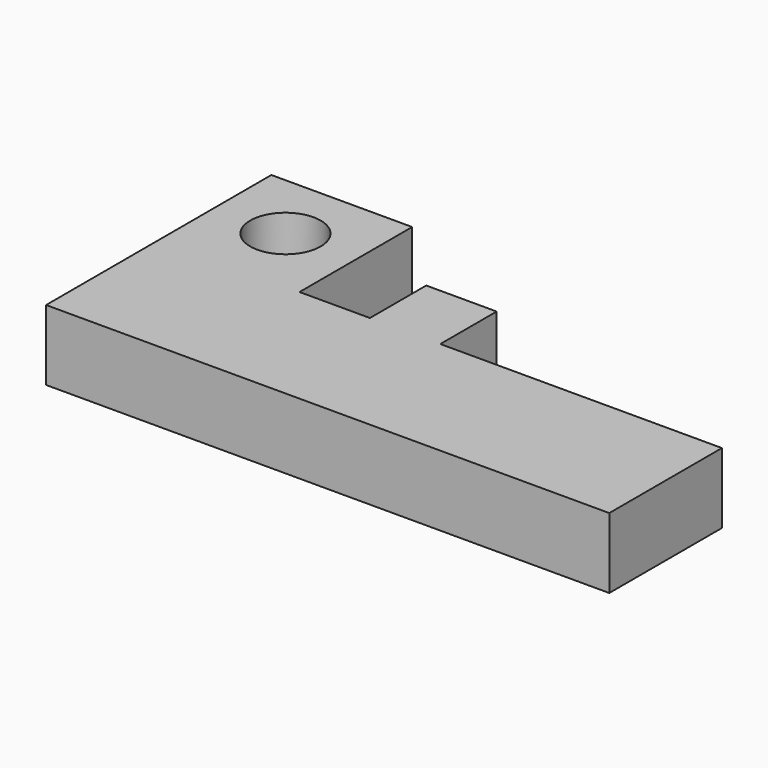
from build123d import *

# Parameters (mm, degrees)
F0_R     = 6.35
F1_DEPTH = 12.7


with BuildPart() as f1:
    # F0 (on Top) → F1 (new body)
    with BuildSketch(Plane.XY):
        Polygon((-11.073005, 20.208511), (-36.473005, 20.208511), (-36.473005, -30.591489), (65.126995, -30.591489), (65.126995, -5.191489), (14.326995, -5.191489), (14.326995, 7.508511), (1.626995, 7.508511), (1.626995, -5.191489), (-11.073005, -5.191489), align=None)
        with Locations((-23.773005, 7.508511)):
            Circle(F0_R, mode=Mode.SUBTRACT)
    extrude(amount=F1_DEPTH)


solid = f1.part
